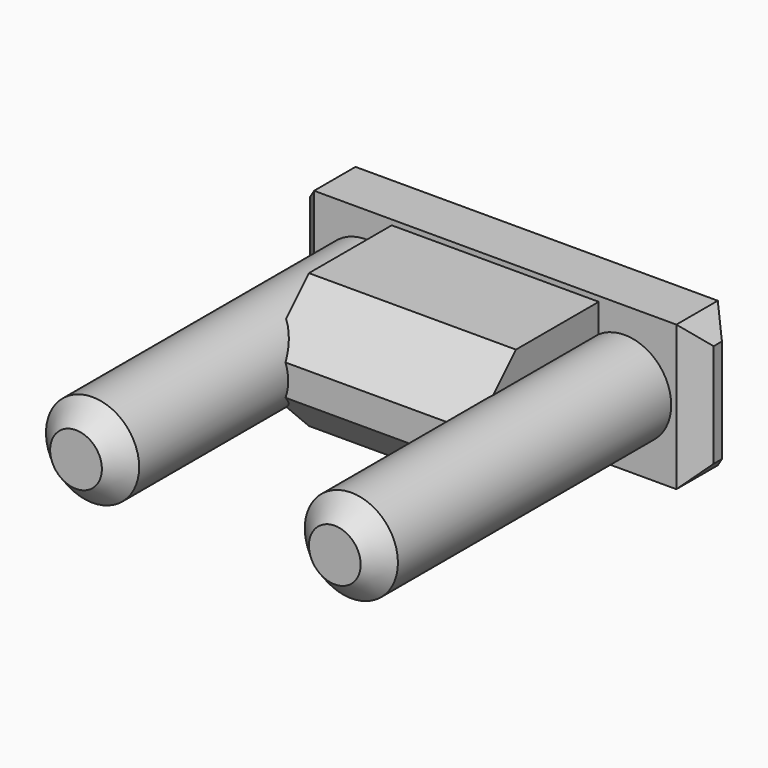
from build123d import *

# Parameters (mm, degrees)
SKETCH012_W  = 39
SKETCH012_H  = 5
PAD012_DEPTH = 14
PAD013_DEPTH = 20
SKETCH014_R  = 4.5
PAD014_DEPTH = 35
CHAMFER_SIZE = 2
SKETCH015_R  = 2.5
POCKET_DEPTH = 10


with BuildPart() as part:
    # Sketch012 → Pad012 (new body)
    with BuildSketch(Plane.XY.offset(0.5)):
        with Locations((0, 52.5)):
            Rectangle(SKETCH012_W, SKETCH012_H)
    extrude(amount=PAD012_DEPTH)

    # Sketch013 → Pad013 (join)
    with BuildSketch(Plane.YZ.offset(-10)):
        Polygon((40, 14), (35, 9), (35, 6), (40, 1), (50, 1), (50, 14), align=None)
    extrude(amount=PAD013_DEPTH)

    # Sketch014 → Pad014 (join)
    with BuildSketch(Plane.XZ.offset(-50)):
        with Locations((-12.5, 7.5)):
            Circle(SKETCH014_R)
        with Locations((12.5, 7.5)):
            Circle(SKETCH014_R)
    extrude(amount=PAD014_DEPTH)

    # Chamfer
    chamfer_edges = [part.edges().sort_by_distance(p)[0] for p in [
        (8, 15, 7.5),
        (-17, 15, 7.5),
        (19.5, 50, 7.5),
        (19.5, 55, 7.5),
        (19.5, 52.5, 0.5),
        (19.5, 52.5, 14.5),
        (-19.5, 55, 7.5),
        (-19.5, 50, 7.5),
        (-19.5, 52.5, 0.5),
        (-19.5, 52.5, 14.5),
    ]]
    chamfer(chamfer_edges, length=CHAMFER_SIZE)

    # Sketch015 → Pocket (cut)
    with BuildSketch(Plane.XZ.offset(-55)):
        with Locations((-12.5, 7.5)):
            Circle(SKETCH015_R)
        with Locations((0, 7.5)):
            Circle(SKETCH015_R)
        with Locations((12.5, 7.5)):
            Circle(SKETCH015_R)
    extrude(amount=POCKET_DEPTH, mode=Mode.SUBTRACT)


with BuildPart() as part_1:
    # Body004 placement: moved
    add(part.part.moved(Location((0, 5, -30))))


solid = part_1.part
